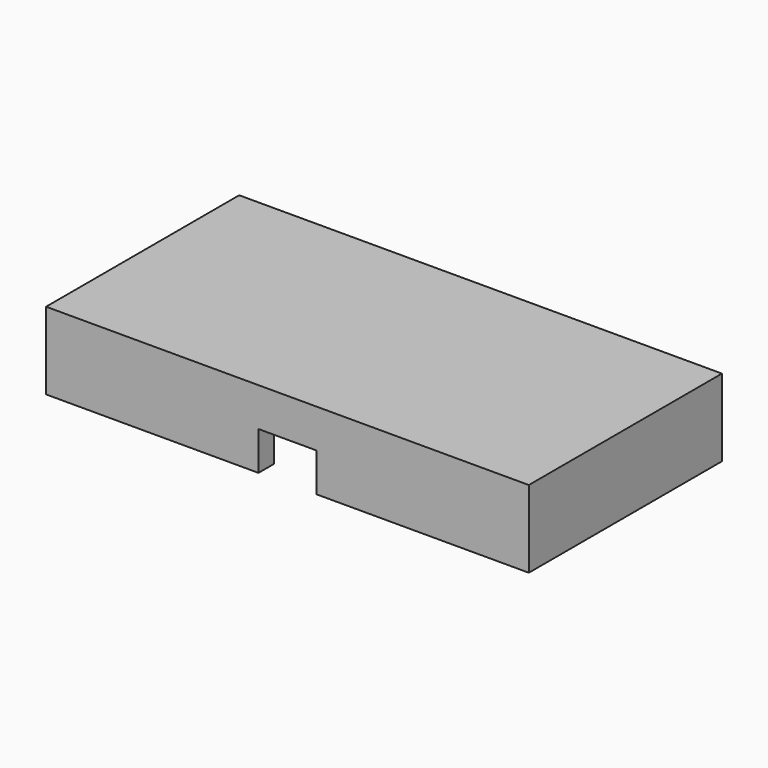
from build123d import *

# Parameters (mm, degrees)
F0_W     = 10
F0_H     = 115
F0_W_2   = 90
F0_H_2   = 20
F0_W_3   = 40
F0_H_3   = 60
F0_H_4   = 25
F0_W_4   = 30
F1_DEPTH = 80
F2_DEPTH = 60
F3_DEPTH = 40


with BuildPart() as f1:
    # F0 (on Top) → F1 (new body)
    with BuildSketch(Plane.XY):
        Polygon((-120, 125), (-250, 125), (-250, 115), (-240, 115), (-200, 115), (-120, 115), align=None)
        with Locations((-245, 57.5)):
            Rectangle(F0_W, F0_H)
        with Locations((-245, -57.5)):
            Rectangle(F0_W, F0_H)
        Polygon((-240, -115), (-250, -115), (-250, -125), (-120, -125), (-120, -115), (-200, -115), align=None)
        Polygon((-30, 125), (-120, 125), (-120, 115), (-120, 105), (-30, 105), align=None)
        Polygon((0, 125), (-30, 125), (-30, 105), (-30, 45), (-30, 25), (0, 25), align=None)
        with Locations((75, 115)):
            Rectangle(F0_W_2, F0_H_2)
        Polygon((30, 125), (0, 125), (0, 25), (30, 25), (30, 45), (30, 105), align=None)
        with Locations((-75, 35)):
            Rectangle(F0_W_2, F0_H_2)
        with Locations((-75, -35)):
            Rectangle(F0_W_2, F0_H_2)
        Polygon((-120, -115), (-120, -125), (-30, -125), (-30, -105), (-120, -105), align=None)
        Polygon((0, -125), (0, -25), (-30, -25), (-30, -45), (-30, -105), (-30, -125), align=None)
        Polygon((30, -25), (0, -25), (0, -125), (30, -125), (30, -105), (30, -45), align=None)
        with Locations((75, -35)):
            Rectangle(F0_W_2, F0_H_2)
        with Locations((75, 35)):
            Rectangle(F0_W_2, F0_H_2)
        with Locations((75, -115)):
            Rectangle(F0_W_2, F0_H_2)
        Polygon((250, 125), (120, 125), (120, 105), (120, 45), (120, 25), (120, 0), (250, 0), align=None)
        Polygon((250, -125), (250, 0), (120, 0), (120, -25), (120, -45), (120, -105), (120, -125), align=None)
        Polygon((-120, 105), (-120, 115), (-200, 115), (-200, 0), (-120, 0), (-120, 25), (-120, 45), align=None)
        Polygon((-120, 0), (-200, 0), (-200, -115), (-120, -115), (-120, -105), (-120, -45), (-120, -25), align=None)
        with Locations((-220, 57.5)):
            Rectangle(F0_W_3, F0_H)
        with Locations((-220, -57.5)):
            Rectangle(F0_W_3, F0_H)
        with Locations((-75, 75)):
            Rectangle(F0_W_2, F0_H_3)
        with Locations((-75, 12.5)):
            Rectangle(F0_W_2, F0_H_4)
        with Locations((-75, -12.5)):
            Rectangle(F0_W_2, F0_H_4)
        with Locations((-75, -75)):
            Rectangle(F0_W_2, F0_H_3)
        with Locations((-15, -12.5)):
            Rectangle(F0_W_4, F0_H_4)
        with Locations((-15, 12.5)):
            Rectangle(F0_W_4, F0_H_4)
        with Locations((15, 12.5)):
            Rectangle(F0_W_4, F0_H_4)
        with Locations((75, 12.5)):
            Rectangle(F0_W_2, F0_H_4)
        with Locations((75, -75)):
            Rectangle(F0_W_2, F0_H_3)
        with Locations((75, -12.5)):
            Rectangle(F0_W_2, F0_H_4)
        with Locations((15, -12.5)):
            Rectangle(F0_W_4, F0_H_4)
        with Locations((75, 75)):
            Rectangle(F0_W_2, F0_H_3)
    extrude(amount=F1_DEPTH)

    # F0 (on Top) → F2 (cut)
    with BuildSketch(Plane.XY):
        with Locations((-220, -57.5)):
            Rectangle(F0_W_3, F0_H)
        with Locations((-220, 57.5)):
            Rectangle(F0_W_3, F0_H)
        with Locations((75, -75)):
            Rectangle(F0_W_2, F0_H_3)
        with Locations((-75, -75)):
            Rectangle(F0_W_2, F0_H_3)
        with Locations((75, 75)):
            Rectangle(F0_W_2, F0_H_3)
        with Locations((-75, 75)):
            Rectangle(F0_W_2, F0_H_3)
        with Locations((-75, -12.5)):
            Rectangle(F0_W_2, F0_H_4)
        with Locations((-75, 12.5)):
            Rectangle(F0_W_2, F0_H_4)
        with Locations((75, -12.5)):
            Rectangle(F0_W_2, F0_H_4)
        with Locations((75, 12.5)):
            Rectangle(F0_W_2, F0_H_4)
    extrude(amount=F2_DEPTH, mode=Mode.SUBTRACT)

    # F0 (on Top) → F3 (cut)
    with BuildSketch(Plane.XY):
        Polygon((0, -125), (0, -25), (-30, -25), (-30, -45), (-30, -105), (-30, -125), align=None)
        Polygon((30, 125), (0, 125), (0, 25), (30, 25), (30, 45), (30, 105), align=None)
        Polygon((0, 125), (-30, 125), (-30, 105), (-30, 45), (-30, 25), (0, 25), align=None)
        with Locations((-15, 12.5)):
            Rectangle(F0_W_4, F0_H_4)
        with Locations((-15, -12.5)):
            Rectangle(F0_W_4, F0_H_4)
        with Locations((15, -12.5)):
            Rectangle(F0_W_4, F0_H_4)
        with Locations((15, 12.5)):
            Rectangle(F0_W_4, F0_H_4)
        Polygon((30, -25), (0, -25), (0, -125), (30, -125), (30, -105), (30, -45), align=None)
    extrude(amount=F3_DEPTH, mode=Mode.SUBTRACT)


solid = f1.part
